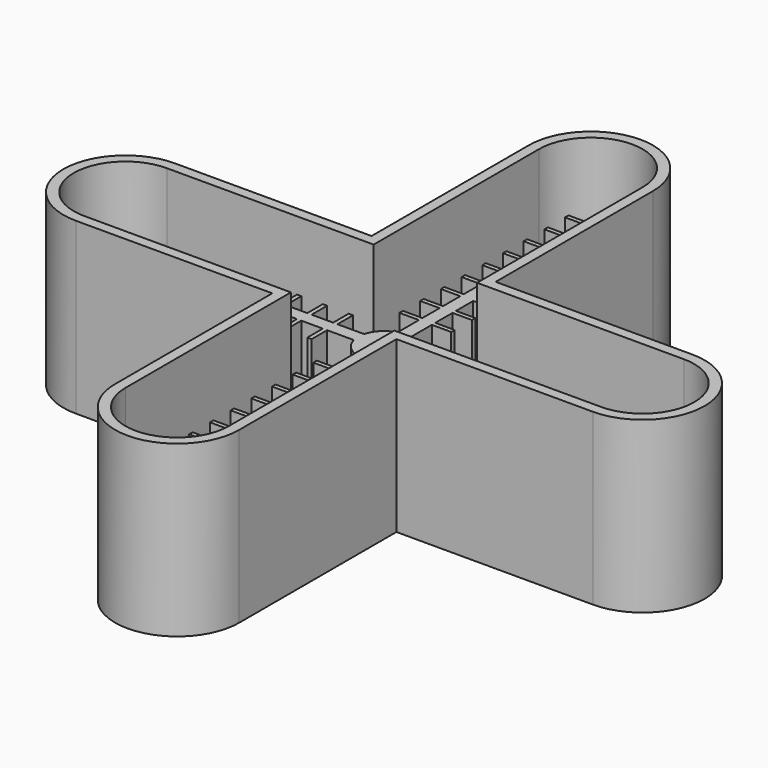
from build123d import *

# Parameters (mm, degrees)
F1_DEPTH = 19.05
F0_W     = 2.6458333333
F0_H     = 0.79375
F0_W_2   = 0.5291666667
F0_H_2   = 2.38125
F2_DEPTH = 12.7
F0_W_3   = 2.38125
F0_H_3   = 0.5291666667
F0_W_4   = 0.79375
F0_H_4   = 2.6458333333
F3_DEPTH = 12.7
F4_DEPTH = 12.7
F5_DEPTH = 0.5291666667
F6_DEPTH = 0.5291666667
F8_DEPTH = 1.27


with BuildPart() as f1:
    # F0 (on Top) → F1 (new body)
    with BuildSketch(Plane.XY):
        with BuildLine():
            Line((7.62, 1.27), (7.62, 25.4))
            ThreePointArc((7.62, 25.4), (0, 33.02), (-7.62, 25.4))
            Line((-7.62, 25.4), (-7.62, 1.27))
            Line((-7.62, 1.27), (-31.75, 1.27))
            ThreePointArc((-31.75, 1.27), (-39.37, -6.35), (-31.75, -13.97))
            Line((-31.75, -13.97), (-7.62, -13.97))
            Line((-7.62, -13.97), (-7.62, -38.1))
            ThreePointArc((-7.62, -38.1), (0, -45.72), (7.62, -38.1))
            Line((7.62, -38.1), (7.62, -13.97))
            Line((7.62, -13.97), (31.75, -13.97))
            ThreePointArc((31.75, -13.97), (39.37, -6.35), (31.75, 1.27))
            Line((31.75, 1.27), (7.62, 1.27))
        make_face()
        with BuildLine():
            ThreePointArc((-6.35, 25.4), (0, 31.75), (6.35, 25.4))
            Line((6.35, 25.4), (6.35, 0))
            Line((6.35, 0), (31.75, 0))
            ThreePointArc((31.75, 0), (38.1, -6.35), (31.75, -12.7))
            Line((31.75, -12.7), (6.35, -12.7))
            Line((6.35, -12.7), (6.35, -38.1))
            ThreePointArc((6.35, -38.1), (0, -44.45), (-6.35, -38.1))
            Line((-6.35, -38.1), (-6.35, -12.7))
            Line((-6.35, -12.7), (-31.75, -12.7))
            ThreePointArc((-31.75, -12.7), (-38.1, -6.35), (-31.75, 0))
            Line((-31.75, 0), (-6.35, 0))
            Line((-6.35, 0), (-6.35, 25.4))
        make_face(mode=Mode.SUBTRACT)
    extrude(amount=F1_DEPTH)



with BuildPart() as f2:
    # F0 (on Top) → F2 (new body)
    with BuildSketch(Plane.XY):
        Polygon((-31.75, -6.35), (-31.75, -5.55625), (-31.75, -3.175), (-32.2791666667, -3.175), (-32.2791666667, -9.525), (-31.75, -9.525), (-31.75, -7.14375), align=None)
        with Locations((-30.4270833333, -5.953125)):
            Rectangle(F0_W, F0_H)
        with Locations((-30.4270833333, -6.746875)):
            Rectangle(F0_W, F0_H)
        with Locations((-28.8395833333, -6.746875)):
            Rectangle(F0_W_2, F0_H)
        with Locations((-28.8395833333, -5.953125)):
            Rectangle(F0_W_2, F0_H)
        with Locations((-28.8395833333, -4.365625)):
            Rectangle(F0_W_2, F0_H_2)
        with Locations((-27.2520833333, -5.953125)):
            Rectangle(F0_W, F0_H)
        with Locations((-27.2520833333, -6.746875)):
            Rectangle(F0_W, F0_H)
        with Locations((-28.8395833333, -8.334375)):
            Rectangle(F0_W_2, F0_H_2)
        with Locations((-25.6645833333, -6.746875)):
            Rectangle(F0_W_2, F0_H)
        with Locations((-25.6645833333, -5.953125)):
            Rectangle(F0_W_2, F0_H)
        with Locations((-25.6645833333, -4.365625)):
            Rectangle(F0_W_2, F0_H_2)
        with Locations((-25.6645833333, -8.334375)):
            Rectangle(F0_W_2, F0_H_2)
        with Locations((-24.0770833333, -6.746875)):
            Rectangle(F0_W, F0_H)
        with Locations((-24.0770833333, -5.953125)):
            Rectangle(F0_W, F0_H)
        with Locations((-22.4895833333, -8.334375)):
            Rectangle(F0_W_2, F0_H_2)
        with Locations((-22.4895833333, -6.746875)):
            Rectangle(F0_W_2, F0_H)
        with Locations((-22.4895833333, -5.953125)):
            Rectangle(F0_W_2, F0_H)
        with Locations((-20.9020833333, -6.746875)):
            Rectangle(F0_W, F0_H)
        with Locations((-22.4895833333, -4.365625)):
            Rectangle(F0_W_2, F0_H_2)
        with Locations((-20.9020833333, -5.953125)):
            Rectangle(F0_W, F0_H)
        with Locations((-19.3145833333, -6.746875)):
            Rectangle(F0_W_2, F0_H)
        with Locations((-19.3145833333, -5.953125)):
            Rectangle(F0_W_2, F0_H)
        with Locations((-19.3145833333, -4.365625)):
            Rectangle(F0_W_2, F0_H_2)
        with Locations((-19.3145833333, -8.334375)):
            Rectangle(F0_W_2, F0_H_2)
        with Locations((-17.7270833333, -6.746875)):
            Rectangle(F0_W, F0_H)
        with Locations((-17.7270833333, -5.953125)):
            Rectangle(F0_W, F0_H)
        with Locations((-16.1395833333, -4.365625)):
            Rectangle(F0_W_2, F0_H_2)
        with Locations((-16.1395833333, -5.953125)):
            Rectangle(F0_W_2, F0_H)
        with Locations((-16.1395833333, -6.746875)):
            Rectangle(F0_W_2, F0_H)
        with Locations((-16.1395833333, -8.334375)):
            Rectangle(F0_W_2, F0_H_2)
        with Locations((-14.5520833333, -6.746875)):
            Rectangle(F0_W, F0_H)
        with Locations((-14.5520833333, -5.953125)):
            Rectangle(F0_W, F0_H)
        with Locations((-12.9645833333, -4.365625)):
            Rectangle(F0_W_2, F0_H_2)
        with Locations((-12.9645833333, -5.953125)):
            Rectangle(F0_W_2, F0_H)
        with Locations((-12.9645833333, -6.746875)):
            Rectangle(F0_W_2, F0_H)
        with Locations((-12.9645833333, -8.334375)):
            Rectangle(F0_W_2, F0_H_2)
        with Locations((-11.3770833333, -6.746875)):
            Rectangle(F0_W, F0_H)
        with Locations((-11.3770833333, -5.953125)):
            Rectangle(F0_W, F0_H)
        with Locations((-9.7895833333, -4.365625)):
            Rectangle(F0_W_2, F0_H_2)
        with Locations((-9.7895833333, -5.953125)):
            Rectangle(F0_W_2, F0_H)
        with Locations((-9.7895833333, -6.746875)):
            Rectangle(F0_W_2, F0_H)
        with Locations((-9.7895833333, -8.334375)):
            Rectangle(F0_W_2, F0_H_2)
        with Locations((-8.2020833333, -6.746875)):
            Rectangle(F0_W, F0_H)
        with Locations((-8.2020833333, -5.953125)):
            Rectangle(F0_W, F0_H)
        with Locations((-6.6145833333, -4.365625)):
            Rectangle(F0_W_2, F0_H_2)
        with Locations((-6.6145833333, -5.953125)):
            Rectangle(F0_W_2, F0_H)
        with Locations((-6.6145833333, -6.746875)):
            Rectangle(F0_W_2, F0_H)
        with Locations((-6.6145833333, -8.334375)):
            Rectangle(F0_W_2, F0_H_2)
        with BuildLine():
            ThreePointArc((-3.0741805311, -7.14375), (-3.1496942856, -6.7500636286), (-3.175, -6.35))
            Line((-3.175, -6.35), (-6.35, -6.35))
            Line((-6.35, -6.35), (-6.35, -7.14375))
            Line((-6.35, -7.14375), (-3.0741805311, -7.14375))
        make_face()
        with BuildLine():
            ThreePointArc((-3.175, -6.35), (-3.1496942856, -5.9499363714), (-3.0741805311, -5.55625))
            Line((-3.0741805311, -5.55625), (-6.35, -5.55625))
            Line((-6.35, -5.55625), (-6.35, -6.35))
            Line((-6.35, -6.35), (-3.175, -6.35))
        make_face()
        with BuildLine():
            ThreePointArc((0.79375, -3.2758194689), (0.4000636286, -3.2003057144), (0, -3.175))
            ThreePointArc((0, -3.175), (-0.4000636286, -3.2003057144), (-0.79375, -3.2758194689))
            ThreePointArc((-0.79375, -3.2758194689), (-2.2450640303, -4.1049359697), (-3.0741805311, -5.55625))
            ThreePointArc((-3.0741805311, -5.55625), (-3.1496942856, -5.9499363714), (-3.175, -6.35))
            ThreePointArc((-3.175, -6.35), (-3.1496942856, -6.7500636286), (-3.0741805311, -7.14375))
            ThreePointArc((-3.0741805311, -7.14375), (-2.2450640303, -8.5950640303), (-0.79375, -9.4241805311))
            ThreePointArc((-0.79375, -9.4241805311), (-0.4000636286, -9.4996942856), (0, -9.525))
            ThreePointArc((0, -9.525), (0.4000636286, -9.4996942856), (0.79375, -9.4241805311))
            ThreePointArc((0.79375, -9.4241805311), (2.2450640303, -8.5950640303), (3.0741805311, -7.14375))
            ThreePointArc((3.0741805311, -7.14375), (3.1496942856, -6.7500636286), (3.175, -6.35))
            ThreePointArc((3.175, -6.35), (3.1496942856, -5.9499363714), (3.0741805311, -5.55625))
            ThreePointArc((3.0741805311, -5.55625), (2.2450640303, -4.1049359697), (0.79375, -3.2758194689))
        make_face()
        with BuildLine():
            Line((6.35, -6.35), (3.175, -6.35))
            ThreePointArc((3.175, -6.35), (3.1496942856, -6.7500636286), (3.0741805311, -7.14375))
            Line((3.0741805311, -7.14375), (6.35, -7.14375))
            Line((6.35, -7.14375), (6.35, -6.35))
        make_face()
        with BuildLine():
            Line((6.35, -5.55625), (3.0741805311, -5.55625))
            ThreePointArc((3.0741805311, -5.55625), (3.1496942856, -5.9499363714), (3.175, -6.35))
            Line((3.175, -6.35), (6.35, -6.35))
            Line((6.35, -6.35), (6.35, -5.55625))
        make_face()
        with Locations((6.6145833333, -5.953125)):
            Rectangle(F0_W_2, F0_H)
        with Locations((6.6145833333, -6.746875)):
            Rectangle(F0_W_2, F0_H)
        with Locations((6.6145833333, -8.334375)):
            Rectangle(F0_W_2, F0_H_2)
        with Locations((8.2020833333, -6.746875)):
            Rectangle(F0_W, F0_H)
        with Locations((8.2020833333, -5.953125)):
            Rectangle(F0_W, F0_H)
        with Locations((9.7895833333, -4.365625)):
            Rectangle(F0_W_2, F0_H_2)
        with Locations((9.7895833333, -5.953125)):
            Rectangle(F0_W_2, F0_H)
        with Locations((9.7895833333, -6.746875)):
            Rectangle(F0_W_2, F0_H)
        with Locations((9.7895833333, -8.334375)):
            Rectangle(F0_W_2, F0_H_2)
        with Locations((11.3770833333, -6.746875)):
            Rectangle(F0_W, F0_H)
        with Locations((11.3770833333, -5.953125)):
            Rectangle(F0_W, F0_H)
        with Locations((12.9645833333, -4.365625)):
            Rectangle(F0_W_2, F0_H_2)
        with Locations((12.9645833333, -5.953125)):
            Rectangle(F0_W_2, F0_H)
        with Locations((12.9645833333, -6.746875)):
            Rectangle(F0_W_2, F0_H)
        with Locations((12.9645833333, -8.334375)):
            Rectangle(F0_W_2, F0_H_2)
        with Locations((14.5520833333, -6.746875)):
            Rectangle(F0_W, F0_H)
        with Locations((14.5520833333, -5.953125)):
            Rectangle(F0_W, F0_H)
        with Locations((16.1395833333, -4.365625)):
            Rectangle(F0_W_2, F0_H_2)
        with Locations((16.1395833333, -5.953125)):
            Rectangle(F0_W_2, F0_H)
        with Locations((16.1395833333, -6.746875)):
            Rectangle(F0_W_2, F0_H)
        with Locations((16.1395833333, -8.334375)):
            Rectangle(F0_W_2, F0_H_2)
        with Locations((17.7270833333, -6.746875)):
            Rectangle(F0_W, F0_H)
        with Locations((17.7270833333, -5.953125)):
            Rectangle(F0_W, F0_H)
        with Locations((19.3145833333, -5.953125)):
            Rectangle(F0_W_2, F0_H)
        with Locations((19.3145833333, -6.746875)):
            Rectangle(F0_W_2, F0_H)
        with Locations((19.3145833333, -8.334375)):
            Rectangle(F0_W_2, F0_H_2)
        with Locations((20.9020833333, -6.746875)):
            Rectangle(F0_W, F0_H)
        with Locations((20.9020833333, -5.953125)):
            Rectangle(F0_W, F0_H)
        with Locations((22.4895833333, -4.365625)):
            Rectangle(F0_W_2, F0_H_2)
        with Locations((22.4895833333, -5.953125)):
            Rectangle(F0_W_2, F0_H)
        with Locations((19.3145833333, -4.365625)):
            Rectangle(F0_W_2, F0_H_2)
        with Locations((6.6145833333, -4.365625)):
            Rectangle(F0_W_2, F0_H_2)
        with Locations((22.4895833333, -6.746875)):
            Rectangle(F0_W_2, F0_H)
        with Locations((22.4895833333, -8.334375)):
            Rectangle(F0_W_2, F0_H_2)
        with Locations((24.0770833333, -5.953125)):
            Rectangle(F0_W, F0_H)
        with Locations((24.0770833333, -6.746875)):
            Rectangle(F0_W, F0_H)
        with Locations((25.6645833333, -6.746875)):
            Rectangle(F0_W_2, F0_H)
        with Locations((25.6645833333, -5.953125)):
            Rectangle(F0_W_2, F0_H)
        with Locations((25.6645833333, -4.365625)):
            Rectangle(F0_W_2, F0_H_2)
        with Locations((25.6645833333, -8.334375)):
            Rectangle(F0_W_2, F0_H_2)
        with Locations((27.2520833333, -6.746875)):
            Rectangle(F0_W, F0_H)
        with Locations((27.2520833333, -5.953125)):
            Rectangle(F0_W, F0_H)
        with Locations((28.8395833333, -4.365625)):
            Rectangle(F0_W_2, F0_H_2)
        with Locations((28.8395833333, -6.746875)):
            Rectangle(F0_W_2, F0_H)
        with Locations((28.8395833333, -8.334375)):
            Rectangle(F0_W_2, F0_H_2)
        with Locations((30.4270833333, -6.746875)):
            Rectangle(F0_W, F0_H)
        with Locations((30.4270833333, -5.953125)):
            Rectangle(F0_W, F0_H)
        Polygon((31.75, -3.175), (31.75, -5.55625), (31.75, -6.35), (31.75, -7.14375), (31.75, -9.525), (32.2791666667, -9.525), (32.2791666667, -3.175), align=None)
        with Locations((28.8395833333, -5.953125)):
            Rectangle(F0_W_2, F0_H)
    extrude(amount=F2_DEPTH)

    # F0 (on Top) → F3 (join)
    with BuildSketch(Plane.XY):
        with BuildLine():
            Line((0, -3.175), (0, 0))
            Line((0, 0), (-0.79375, 0))
            Line((-0.79375, 0), (-0.79375, -3.2758194689))
            ThreePointArc((-0.79375, -3.2758194689), (-0.4000636286, -3.2003057144), (0, -3.175))
        make_face()
        with BuildLine():
            Line((0.79375, 0), (0, 0))
            Line((0, 0), (0, -3.175))
            ThreePointArc((0, -3.175), (0.4000636286, -3.2003057144), (0.79375, -3.2758194689))
            Line((0.79375, -3.2758194689), (0.79375, 0))
        make_face()
        with Locations((1.984375, 0.2645833333)):
            Rectangle(F0_W_3, F0_H_3)
        with Locations((0.396875, 0.2645833333)):
            Rectangle(F0_W_4, F0_H_3)
        with Locations((-0.396875, 0.2645833333)):
            Rectangle(F0_W_4, F0_H_3)
        with Locations((-1.984375, 0.2645833333)):
            Rectangle(F0_W_3, F0_H_3)
        with Locations((-0.396875, 1.8520833333)):
            Rectangle(F0_W_4, F0_H_4)
        with Locations((0.396875, 1.8520833333)):
            Rectangle(F0_W_4, F0_H_4)
        with Locations((1.984375, 3.4395833333)):
            Rectangle(F0_W_3, F0_H_3)
        with Locations((-0.396875, 3.4395833333)):
            Rectangle(F0_W_4, F0_H_3)
        with Locations((-1.984375, 3.4395833333)):
            Rectangle(F0_W_3, F0_H_3)
        with Locations((-0.396875, 5.0270833333)):
            Rectangle(F0_W_4, F0_H_4)
        with Locations((0.396875, 5.0270833333)):
            Rectangle(F0_W_4, F0_H_4)
        with Locations((0.396875, 3.4395833333)):
            Rectangle(F0_W_4, F0_H_3)
        with Locations((1.984375, 6.6145833333)):
            Rectangle(F0_W_3, F0_H_3)
        with Locations((0.396875, 6.6145833333)):
            Rectangle(F0_W_4, F0_H_3)
        with Locations((-0.396875, 6.6145833333)):
            Rectangle(F0_W_4, F0_H_3)
        with Locations((-1.984375, 6.6145833333)):
            Rectangle(F0_W_3, F0_H_3)
        with Locations((-0.396875, 8.2020833333)):
            Rectangle(F0_W_4, F0_H_4)
        with Locations((0.396875, 8.2020833333)):
            Rectangle(F0_W_4, F0_H_4)
        with Locations((-1.984375, 9.7895833333)):
            Rectangle(F0_W_3, F0_H_3)
        with Locations((-0.396875, 9.7895833333)):
            Rectangle(F0_W_4, F0_H_3)
        with Locations((0.396875, 9.7895833333)):
            Rectangle(F0_W_4, F0_H_3)
        with Locations((1.984375, 9.7895833333)):
            Rectangle(F0_W_3, F0_H_3)
        with Locations((-0.396875, 11.3770833333)):
            Rectangle(F0_W_4, F0_H_4)
        with Locations((0.396875, 11.3770833333)):
            Rectangle(F0_W_4, F0_H_4)
        with Locations((-1.984375, 12.9645833333)):
            Rectangle(F0_W_3, F0_H_3)
        with Locations((-0.396875, 12.9645833333)):
            Rectangle(F0_W_4, F0_H_3)
        with Locations((0.396875, 12.9645833333)):
            Rectangle(F0_W_4, F0_H_3)
        with Locations((1.984375, 12.9645833333)):
            Rectangle(F0_W_3, F0_H_3)
        with Locations((-0.396875, 14.5520833333)):
            Rectangle(F0_W_4, F0_H_4)
        with Locations((0.396875, 14.5520833333)):
            Rectangle(F0_W_4, F0_H_4)
        with Locations((-1.984375, 16.1395833333)):
            Rectangle(F0_W_3, F0_H_3)
        with Locations((-0.396875, 16.1395833333)):
            Rectangle(F0_W_4, F0_H_3)
        with Locations((0.396875, 16.1395833333)):
            Rectangle(F0_W_4, F0_H_3)
        with Locations((1.984375, 16.1395833333)):
            Rectangle(F0_W_3, F0_H_3)
        with Locations((0.396875, 17.7270833333)):
            Rectangle(F0_W_4, F0_H_4)
        with Locations((-0.396875, 17.7270833333)):
            Rectangle(F0_W_4, F0_H_4)
        with Locations((-1.984375, 19.3145833333)):
            Rectangle(F0_W_3, F0_H_3)
        with Locations((-0.396875, 19.3145833333)):
            Rectangle(F0_W_4, F0_H_3)
        with Locations((0.396875, 19.3145833333)):
            Rectangle(F0_W_4, F0_H_3)
        with Locations((1.984375, 19.3145833333)):
            Rectangle(F0_W_3, F0_H_3)
        with Locations((0.396875, 20.9020833333)):
            Rectangle(F0_W_4, F0_H_4)
        with Locations((-0.396875, 20.9020833333)):
            Rectangle(F0_W_4, F0_H_4)
        with Locations((-1.984375, 22.4895833333)):
            Rectangle(F0_W_3, F0_H_3)
        with Locations((-0.396875, 22.4895833333)):
            Rectangle(F0_W_4, F0_H_3)
        with Locations((0.396875, 22.4895833333)):
            Rectangle(F0_W_4, F0_H_3)
        with Locations((-0.396875, 24.0770833333)):
            Rectangle(F0_W_4, F0_H_4)
        with Locations((1.984375, 22.4895833333)):
            Rectangle(F0_W_3, F0_H_3)
        with Locations((0.396875, 24.0770833333)):
            Rectangle(F0_W_4, F0_H_4)
        Polygon((-0.79375, 25.4), (0, 25.4), (0.79375, 25.4), (3.175, 25.4), (3.175, 25.9291666667), (-3.175, 25.9291666667), (-3.175, 25.4), align=None)
    extrude(amount=F3_DEPTH)

    # F0 (on Top) → F4 (join)
    with BuildSketch(Plane.XY):
        with BuildLine():
            Line((0.79375, -12.7), (0.79375, -9.4241805311))
            ThreePointArc((0.79375, -9.4241805311), (0.4000636286, -9.4996942856), (0, -9.525))
            Line((0, -9.525), (0, -12.7))
            Line((0, -12.7), (0.79375, -12.7))
        make_face()
        with BuildLine():
            ThreePointArc((0, -9.525), (-0.4000636286, -9.4996942856), (-0.79375, -9.4241805311))
            Line((-0.79375, -9.4241805311), (-0.79375, -12.7))
            Line((-0.79375, -12.7), (0, -12.7))
            Line((0, -12.7), (0, -9.525))
        make_face()
        with Locations((-0.396875, -12.9645833333)):
            Rectangle(F0_W_4, F0_H_3)
        with Locations((0.396875, -12.9645833333)):
            Rectangle(F0_W_4, F0_H_3)
        with Locations((1.984375, -12.9645833333)):
            Rectangle(F0_W_3, F0_H_3)
        with Locations((-1.984375, -12.9645833333)):
            Rectangle(F0_W_3, F0_H_3)
        with Locations((-0.396875, -14.5520833333)):
            Rectangle(F0_W_4, F0_H_4)
        with Locations((0.396875, -14.5520833333)):
            Rectangle(F0_W_4, F0_H_4)
        with Locations((1.984375, -16.1395833333)):
            Rectangle(F0_W_3, F0_H_3)
        with Locations((0.396875, -16.1395833333)):
            Rectangle(F0_W_4, F0_H_3)
        with Locations((-0.396875, -16.1395833333)):
            Rectangle(F0_W_4, F0_H_3)
        with Locations((-1.984375, -16.1395833333)):
            Rectangle(F0_W_3, F0_H_3)
        with Locations((1.984375, -19.3145833333)):
            Rectangle(F0_W_3, F0_H_3)
        with Locations((0.396875, -19.3145833333)):
            Rectangle(F0_W_4, F0_H_3)
        with Locations((-0.396875, -19.3145833333)):
            Rectangle(F0_W_4, F0_H_3)
        with Locations((-1.984375, -19.3145833333)):
            Rectangle(F0_W_3, F0_H_3)
        with Locations((-0.396875, -17.7270833333)):
            Rectangle(F0_W_4, F0_H_4)
        with Locations((0.396875, -17.7270833333)):
            Rectangle(F0_W_4, F0_H_4)
        with Locations((0.396875, -20.9020833333)):
            Rectangle(F0_W_4, F0_H_4)
        with Locations((-0.396875, -20.9020833333)):
            Rectangle(F0_W_4, F0_H_4)
        with Locations((-0.396875, -22.4895833333)):
            Rectangle(F0_W_4, F0_H_3)
        with Locations((0.396875, -22.4895833333)):
            Rectangle(F0_W_4, F0_H_3)
        with Locations((1.984375, -22.4895833333)):
            Rectangle(F0_W_3, F0_H_3)
        with Locations((-1.984375, -22.4895833333)):
            Rectangle(F0_W_3, F0_H_3)
        with Locations((-0.396875, -24.0770833333)):
            Rectangle(F0_W_4, F0_H_4)
        with Locations((0.396875, -24.0770833333)):
            Rectangle(F0_W_4, F0_H_4)
        with Locations((0.396875, -25.6645833333)):
            Rectangle(F0_W_4, F0_H_3)
        with Locations((-0.396875, -25.6645833333)):
            Rectangle(F0_W_4, F0_H_3)
        with Locations((-1.984375, -25.6645833333)):
            Rectangle(F0_W_3, F0_H_3)
        with Locations((-0.396875, -27.2520833333)):
            Rectangle(F0_W_4, F0_H_4)
        with Locations((1.984375, -25.6645833333)):
            Rectangle(F0_W_3, F0_H_3)
        with Locations((0.396875, -27.2520833333)):
            Rectangle(F0_W_4, F0_H_4)
        with Locations((0.396875, -28.8395833333)):
            Rectangle(F0_W_4, F0_H_3)
        with Locations((1.984375, -28.8395833333)):
            Rectangle(F0_W_3, F0_H_3)
        with Locations((-0.396875, -28.8395833333)):
            Rectangle(F0_W_4, F0_H_3)
        with Locations((-1.984375, -28.8395833333)):
            Rectangle(F0_W_3, F0_H_3)
        with Locations((-0.396875, -30.4270833333)):
            Rectangle(F0_W_4, F0_H_4)
        with Locations((0.396875, -30.4270833333)):
            Rectangle(F0_W_4, F0_H_4)
        with Locations((0.396875, -32.0145833333)):
            Rectangle(F0_W_4, F0_H_3)
        with Locations((1.984375, -32.0145833333)):
            Rectangle(F0_W_3, F0_H_3)
        with Locations((-0.396875, -32.0145833333)):
            Rectangle(F0_W_4, F0_H_3)
        with Locations((-1.984375, -32.0145833333)):
            Rectangle(F0_W_3, F0_H_3)
        with Locations((-0.396875, -33.6020833333)):
            Rectangle(F0_W_4, F0_H_4)
        with Locations((0.396875, -33.6020833333)):
            Rectangle(F0_W_4, F0_H_4)
        with Locations((0.396875, -35.1895833333)):
            Rectangle(F0_W_4, F0_H_3)
        with Locations((1.984375, -35.1895833333)):
            Rectangle(F0_W_3, F0_H_3)
        with Locations((-0.396875, -35.1895833333)):
            Rectangle(F0_W_4, F0_H_3)
        with Locations((-1.984375, -35.1895833333)):
            Rectangle(F0_W_3, F0_H_3)
        with Locations((-0.396875, -36.7770833333)):
            Rectangle(F0_W_4, F0_H_4)
        with Locations((0.396875, -36.7770833333)):
            Rectangle(F0_W_4, F0_H_4)
        Polygon((0, -38.1), (-0.79375, -38.1), (-3.175, -38.1), (-3.175, -38.6291666667), (3.175, -38.6291666667), (3.175, -38.1), (0.79375, -38.1), align=None)
    extrude(amount=F4_DEPTH)


with BuildPart() as f1_1:
    add(f1.part)

    add(f2.part)  # F5 merges F2
    # F0 (on Top) → F5 (join)
    with BuildSketch(Plane.XY):
        with BuildLine():
            Line((6.35, 0), (6.35, 25.4))
            ThreePointArc((6.35, 25.4), (0, 31.75), (-6.35, 25.4))
            Line((-6.35, 25.4), (-6.35, 0))
            Line((-6.35, 0), (-31.75, 0))
            ThreePointArc((-31.75, 0), (-38.1, -6.35), (-31.75, -12.7))
            Line((-31.75, -12.7), (-6.35, -12.7))
            Line((-6.35, -12.7), (-6.35, -38.1))
            ThreePointArc((-6.35, -38.1), (0, -44.45), (6.35, -38.1))
            Line((6.35, -38.1), (6.35, -12.7))
            Line((6.35, -12.7), (31.75, -12.7))
            ThreePointArc((31.75, -12.7), (38.1, -6.35), (31.75, 0))
            Line((31.75, 0), (6.35, 0))
        make_face()
        with BuildLine():
            Line((-0.79375, -3.2758194689), (-0.79375, 0))
            Line((-0.79375, 0), (-3.175, 0))
            Line((-3.175, 0), (-3.175, 0.5291666667))
            Line((-3.175, 0.5291666667), (-0.79375, 0.5291666667))
            Line((-0.79375, 0.5291666667), (-0.79375, 3.175))
            Line((-0.79375, 3.175), (-3.175, 3.175))
            Line((-3.175, 3.175), (-3.175, 3.7041666667))
            Line((-3.175, 3.7041666667), (-0.79375, 3.7041666667))
            Line((-0.79375, 3.7041666667), (-0.79375, 6.35))
            Line((-0.79375, 6.35), (-3.175, 6.35))
            Line((-3.175, 6.35), (-3.175, 6.8791666667))
            Line((-3.175, 6.8791666667), (-0.79375, 6.8791666667))
            Line((-0.79375, 6.8791666667), (-0.79375, 9.525))
            Line((-0.79375, 9.525), (-3.175, 9.525))
            Line((-3.175, 9.525), (-3.175, 10.0541666667))
            Line((-3.175, 10.0541666667), (-0.79375, 10.0541666667))
            Line((-0.79375, 10.0541666667), (-0.79375, 12.7))
            Line((-0.79375, 12.7), (-3.175, 12.7))
            Line((-3.175, 12.7), (-3.175, 13.2291666667))
            Line((-3.175, 13.2291666667), (-0.79375, 13.2291666667))
            Line((-0.79375, 13.2291666667), (-0.79375, 15.875))
            Line((-0.79375, 15.875), (-3.175, 15.875))
            Line((-3.175, 15.875), (-3.175, 16.4041666667))
            Line((-3.175, 16.4041666667), (-0.79375, 16.4041666667))
            Line((-0.79375, 16.4041666667), (-0.79375, 19.05))
            Line((-0.79375, 19.05), (-3.175, 19.05))
            Line((-3.175, 19.05), (-3.175, 19.5791666667))
            Line((-3.175, 19.5791666667), (-0.79375, 19.5791666667))
            Line((-0.79375, 19.5791666667), (-0.79375, 22.225))
            Line((-0.79375, 22.225), (-3.175, 22.225))
            Line((-3.175, 22.225), (-3.175, 22.7541666667))
            Line((-3.175, 22.7541666667), (-0.79375, 22.7541666667))
            Line((-0.79375, 22.7541666667), (-0.79375, 25.4))
            Line((-0.79375, 25.4), (-3.175, 25.4))
            Line((-3.175, 25.4), (-3.175, 25.9291666667))
            Line((-3.175, 25.9291666667), (3.175, 25.9291666667))
            Line((3.175, 25.9291666667), (3.175, 25.4))
            Line((3.175, 25.4), (0.79375, 25.4))
            Line((0.79375, 25.4), (0.79375, 22.7541666667))
            Line((0.79375, 22.7541666667), (3.175, 22.7541666667))
            Line((3.175, 22.7541666667), (3.175, 22.225))
            Line((3.175, 22.225), (0.79375, 22.225))
            Line((0.79375, 22.225), (0.79375, 19.5791666667))
            Line((0.79375, 19.5791666667), (3.175, 19.5791666667))
            Line((3.175, 19.5791666667), (3.175, 19.05))
            Line((3.175, 19.05), (0.79375, 19.05))
            Line((0.79375, 19.05), (0.79375, 16.4041666667))
            Line((0.79375, 16.4041666667), (3.175, 16.4041666667))
            Line((3.175, 16.4041666667), (3.175, 15.875))
            Line((3.175, 15.875), (0.79375, 15.875))
            Line((0.79375, 15.875), (0.79375, 13.2291666667))
            Line((0.79375, 13.2291666667), (3.175, 13.2291666667))
            Line((3.175, 13.2291666667), (3.175, 12.7))
            Line((3.175, 12.7), (0.79375, 12.7))
            Line((0.79375, 12.7), (0.79375, 10.0541666667))
            Line((0.79375, 10.0541666667), (3.175, 10.0541666667))
            Line((3.175, 10.0541666667), (3.175, 9.525))
            Line((3.175, 9.525), (0.79375, 9.525))
            Line((0.79375, 9.525), (0.79375, 6.8791666667))
            Line((0.79375, 6.8791666667), (3.175, 6.8791666667))
            Line((3.175, 6.8791666667), (3.175, 6.35))
            Line((3.175, 6.35), (0.79375, 6.35))
            Line((0.79375, 6.35), (0.79375, 3.7041666667))
            Line((0.79375, 3.7041666667), (3.175, 3.7041666667))
            Line((3.175, 3.7041666667), (3.175, 3.175))
            Line((3.175, 3.175), (0.79375, 3.175))
            Line((0.79375, 3.175), (0.79375, 0.5291666667))
            Line((0.79375, 0.5291666667), (3.175, 0.5291666667))
            Line((3.175, 0.5291666667), (3.175, 0))
            Line((3.175, 0), (0.79375, 0))
            Line((0.79375, 0), (0.79375, -3.2758194689))
            ThreePointArc((0.79375, -3.2758194689), (2.2450640303, -4.1049359697), (3.0741805311, -5.55625))
            Line((3.0741805311, -5.55625), (6.35, -5.55625))
            Line((6.35, -5.55625), (6.35, -3.175))
            Line((6.35, -3.175), (6.8791666667, -3.175))
            Line((6.8791666667, -3.175), (6.8791666667, -5.55625))
            Line((6.8791666667, -5.55625), (9.525, -5.55625))
            Line((9.525, -5.55625), (9.525, -3.175))
            Line((9.525, -3.175), (10.0541666667, -3.175))
            Line((10.0541666667, -3.175), (10.0541666667, -5.55625))
            Line((10.0541666667, -5.55625), (12.7, -5.55625))
            Line((12.7, -5.55625), (12.7, -3.175))
            Line((12.7, -3.175), (13.2291666667, -3.175))
            Line((13.2291666667, -3.175), (13.2291666667, -5.55625))
            Line((13.2291666667, -5.55625), (15.875, -5.55625))
            Line((15.875, -5.55625), (15.875, -3.175))
            Line((15.875, -3.175), (16.4041666667, -3.175))
            Line((16.4041666667, -3.175), (16.4041666667, -5.55625))
            Line((16.4041666667, -5.55625), (19.05, -5.55625))
            Line((19.05, -5.55625), (19.05, -3.175))
            Line((19.05, -3.175), (19.5791666667, -3.175))
            Line((19.5791666667, -3.175), (19.5791666667, -5.55625))
            Line((19.5791666667, -5.55625), (22.225, -5.55625))
            Line((22.225, -5.55625), (22.225, -3.175))
            Line((22.225, -3.175), (22.7541666667, -3.175))
            Line((22.7541666667, -3.175), (22.7541666667, -5.55625))
            Line((22.7541666667, -5.55625), (25.4, -5.55625))
            Line((25.4, -5.55625), (25.4, -3.175))
            Line((25.4, -3.175), (25.9291666667, -3.175))
            Line((25.9291666667, -3.175), (25.9291666667, -5.55625))
            Line((25.9291666667, -5.55625), (28.575, -5.55625))
            Line((28.575, -5.55625), (28.575, -3.175))
            Line((28.575, -3.175), (29.1041666667, -3.175))
            Line((29.1041666667, -3.175), (29.1041666667, -5.55625))
            Line((29.1041666667, -5.55625), (31.75, -5.55625))
            Line((31.75, -5.55625), (31.75, -3.175))
            Line((31.75, -3.175), (32.2791666667, -3.175))
            Line((32.2791666667, -3.175), (32.2791666667, -9.525))
            Line((32.2791666667, -9.525), (31.75, -9.525))
            Line((31.75, -9.525), (31.75, -7.14375))
            Line((31.75, -7.14375), (29.1041666667, -7.14375))
            Line((29.1041666667, -7.14375), (29.1041666667, -9.525))
            Line((29.1041666667, -9.525), (28.575, -9.525))
            Line((28.575, -9.525), (28.575, -7.14375))
            Line((28.575, -7.14375), (25.9291666667, -7.14375))
            Line((25.9291666667, -7.14375), (25.9291666667, -9.525))
            Line((25.9291666667, -9.525), (25.4, -9.525))
            Line((25.4, -9.525), (25.4, -7.14375))
            Line((25.4, -7.14375), (22.7541666667, -7.14375))
            Line((22.7541666667, -7.14375), (22.7541666667, -9.525))
            Line((22.7541666667, -9.525), (22.225, -9.525))
            Line((22.225, -9.525), (22.225, -7.14375))
            Line((22.225, -7.14375), (19.5791666667, -7.14375))
            Line((19.5791666667, -7.14375), (19.5791666667, -9.525))
            Line((19.5791666667, -9.525), (19.05, -9.525))
            Line((19.05, -9.525), (19.05, -7.14375))
            Line((19.05, -7.14375), (16.4041666667, -7.14375))
            Line((16.4041666667, -7.14375), (16.4041666667, -9.525))
            Line((16.4041666667, -9.525), (15.875, -9.525))
            Line((15.875, -9.525), (15.875, -7.14375))
            Line((15.875, -7.14375), (13.2291666667, -7.14375))
            Line((13.2291666667, -7.14375), (13.2291666667, -9.525))
            Line((13.2291666667, -9.525), (12.7, -9.525))
            Line((12.7, -9.525), (12.7, -7.14375))
            Line((12.7, -7.14375), (10.0541666667, -7.14375))
            Line((10.0541666667, -7.14375), (10.0541666667, -9.525))
            Line((10.0541666667, -9.525), (9.525, -9.525))
            Line((9.525, -9.525), (9.525, -7.14375))
            Line((9.525, -7.14375), (6.8791666667, -7.14375))
            Line((6.8791666667, -7.14375), (6.8791666667, -9.525))
            Line((6.8791666667, -9.525), (6.35, -9.525))
            Line((6.35, -9.525), (6.35, -7.14375))
            Line((6.35, -7.14375), (3.0741805311, -7.14375))
            ThreePointArc((3.0741805311, -7.14375), (2.2450640303, -8.5950640303), (0.79375, -9.4241805311))
            Line((0.79375, -9.4241805311), (0.79375, -12.7))
            Line((0.79375, -12.7), (3.175, -12.7))
            Line((3.175, -12.7), (3.175, -13.2291666667))
            Line((3.175, -13.2291666667), (0.79375, -13.2291666667))
            Line((0.79375, -13.2291666667), (0.79375, -15.875))
            Line((0.79375, -15.875), (3.175, -15.875))
            Line((3.175, -15.875), (3.175, -16.4041666667))
            Line((3.175, -16.4041666667), (0.79375, -16.4041666667))
            Line((0.79375, -16.4041666667), (0.79375, -19.05))
            Line((0.79375, -19.05), (3.175, -19.05))
            Line((3.175, -19.05), (3.175, -19.5791666667))
            Line((3.175, -19.5791666667), (0.79375, -19.5791666667))
            Line((0.79375, -19.5791666667), (0.79375, -22.225))
            Line((0.79375, -22.225), (3.175, -22.225))
            Line((3.175, -22.225), (3.175, -22.7541666667))
            Line((3.175, -22.7541666667), (0.79375, -22.7541666667))
            Line((0.79375, -22.7541666667), (0.79375, -25.4))
            Line((0.79375, -25.4), (3.175, -25.4))
            Line((3.175, -25.4), (3.175, -25.9291666667))
            Line((3.175, -25.9291666667), (0.79375, -25.9291666667))
            Line((0.79375, -25.9291666667), (0.79375, -28.575))
            Line((0.79375, -28.575), (3.175, -28.575))
            Line((3.175, -28.575), (3.175, -29.1041666667))
            Line((3.175, -29.1041666667), (0.79375, -29.1041666667))
            Line((0.79375, -29.1041666667), (0.79375, -31.75))
            Line((0.79375, -31.75), (3.175, -31.75))
            Line((3.175, -31.75), (3.175, -32.2791666667))
            Line((3.175, -32.2791666667), (0.79375, -32.2791666667))
            Line((0.79375, -32.2791666667), (0.79375, -34.925))
            Line((0.79375, -34.925), (3.175, -34.925))
            Line((3.175, -34.925), (3.175, -35.4541666667))
            Line((3.175, -35.4541666667), (0.79375, -35.4541666667))
            Line((0.79375, -35.4541666667), (0.79375, -38.1))
            Line((0.79375, -38.1), (3.175, -38.1))
            Line((3.175, -38.1), (3.175, -38.6291666667))
            Line((3.175, -38.6291666667), (-3.175, -38.6291666667))
            Line((-3.175, -38.6291666667), (-3.175, -38.1))
            Line((-3.175, -38.1), (-0.79375, -38.1))
            Line((-0.79375, -38.1), (-0.79375, -35.4541666667))
            Line((-0.79375, -35.4541666667), (-3.175, -35.4541666667))
            Line((-3.175, -35.4541666667), (-3.175, -34.925))
            Line((-3.175, -34.925), (-0.79375, -34.925))
            Line((-0.79375, -34.925), (-0.79375, -32.2791666667))
            Line((-0.79375, -32.2791666667), (-3.175, -32.2791666667))
            Line((-3.175, -32.2791666667), (-3.175, -31.75))
            Line((-3.175, -31.75), (-0.79375, -31.75))
            Line((-0.79375, -31.75), (-0.79375, -29.1041666667))
            Line((-0.79375, -29.1041666667), (-3.175, -29.1041666667))
            Line((-3.175, -29.1041666667), (-3.175, -28.575))
            Line((-3.175, -28.575), (-0.79375, -28.575))
            Line((-0.79375, -28.575), (-0.79375, -25.9291666667))
            Line((-0.79375, -25.9291666667), (-3.175, -25.9291666667))
            Line((-3.175, -25.9291666667), (-3.175, -25.4))
            Line((-3.175, -25.4), (-0.79375, -25.4))
            Line((-0.79375, -25.4), (-0.79375, -22.7541666667))
            Line((-0.79375, -22.7541666667), (-3.175, -22.7541666667))
            Line((-3.175, -22.7541666667), (-3.175, -22.225))
            Line((-3.175, -22.225), (-0.79375, -22.225))
            Line((-0.79375, -22.225), (-0.79375, -19.5791666667))
            Line((-0.79375, -19.5791666667), (-3.175, -19.5791666667))
            Line((-3.175, -19.5791666667), (-3.175, -19.05))
            Line((-3.175, -19.05), (-0.79375, -19.05))
            Line((-0.79375, -19.05), (-0.79375, -16.4041666667))
            Line((-0.79375, -16.4041666667), (-3.175, -16.4041666667))
            Line((-3.175, -16.4041666667), (-3.175, -15.875))
            Line((-3.175, -15.875), (-0.79375, -15.875))
            Line((-0.79375, -15.875), (-0.79375, -13.2291666667))
            Line((-0.79375, -13.2291666667), (-3.175, -13.2291666667))
            Line((-3.175, -13.2291666667), (-3.175, -12.7))
            Line((-3.175, -12.7), (-0.79375, -12.7))
            Line((-0.79375, -12.7), (-0.79375, -9.4241805311))
            ThreePointArc((-0.79375, -9.4241805311), (-2.2450640303, -8.5950640303), (-3.0741805311, -7.14375))
            Line((-3.0741805311, -7.14375), (-6.35, -7.14375))
            Line((-6.35, -7.14375), (-6.35, -9.525))
            Line((-6.35, -9.525), (-6.8791666667, -9.525))
            Line((-6.8791666667, -9.525), (-6.8791666667, -7.14375))
            Line((-6.8791666667, -7.14375), (-9.525, -7.14375))
            Line((-9.525, -7.14375), (-9.525, -9.525))
            Line((-9.525, -9.525), (-10.0541666667, -9.525))
            Line((-10.0541666667, -9.525), (-10.0541666667, -7.14375))
            Line((-10.0541666667, -7.14375), (-12.7, -7.14375))
            Line((-12.7, -7.14375), (-12.7, -9.525))
            Line((-12.7, -9.525), (-13.2291666667, -9.525))
            Line((-13.2291666667, -9.525), (-13.2291666667, -7.14375))
            Line((-13.2291666667, -7.14375), (-15.875, -7.14375))
            Line((-15.875, -7.14375), (-15.875, -9.525))
            Line((-15.875, -9.525), (-16.4041666667, -9.525))
            Line((-16.4041666667, -9.525), (-16.4041666667, -7.14375))
            Line((-16.4041666667, -7.14375), (-19.05, -7.14375))
            Line((-19.05, -7.14375), (-19.05, -9.525))
            Line((-19.05, -9.525), (-19.5791666667, -9.525))
            Line((-19.5791666667, -9.525), (-19.5791666667, -7.14375))
            Line((-19.5791666667, -7.14375), (-22.225, -7.14375))
            Line((-22.225, -7.14375), (-22.225, -9.525))
            Line((-22.225, -9.525), (-22.7541666667, -9.525))
            Line((-22.7541666667, -9.525), (-22.7541666667, -7.14375))
            Line((-22.7541666667, -7.14375), (-25.4, -7.14375))
            Line((-25.4, -7.14375), (-25.4, -9.525))
            Line((-25.4, -9.525), (-25.9291666667, -9.525))
            Line((-25.9291666667, -9.525), (-25.9291666667, -7.14375))
            Line((-25.9291666667, -7.14375), (-28.575, -7.14375))
            Line((-28.575, -7.14375), (-28.575, -9.525))
            Line((-28.575, -9.525), (-29.1041666667, -9.525))
            Line((-29.1041666667, -9.525), (-29.1041666667, -7.14375))
            Line((-29.1041666667, -7.14375), (-31.75, -7.14375))
            Line((-31.75, -7.14375), (-31.75, -9.525))
            Line((-31.75, -9.525), (-32.2791666667, -9.525))
            Line((-32.2791666667, -9.525), (-32.2791666667, -3.175))
            Line((-32.2791666667, -3.175), (-31.75, -3.175))
            Line((-31.75, -3.175), (-31.75, -5.55625))
            Line((-31.75, -5.55625), (-29.1041666667, -5.55625))
            Line((-29.1041666667, -5.55625), (-29.1041666667, -3.175))
            Line((-29.1041666667, -3.175), (-28.575, -3.175))
            Line((-28.575, -3.175), (-28.575, -5.55625))
            Line((-28.575, -5.55625), (-25.9291666667, -5.55625))
            Line((-25.9291666667, -5.55625), (-25.9291666667, -3.175))
            Line((-25.9291666667, -3.175), (-25.4, -3.175))
            Line((-25.4, -3.175), (-25.4, -5.55625))
            Line((-25.4, -5.55625), (-22.7541666667, -5.55625))
            Line((-22.7541666667, -5.55625), (-22.7541666667, -3.175))
            Line((-22.7541666667, -3.175), (-22.225, -3.175))
            Line((-22.225, -3.175), (-22.225, -5.55625))
            Line((-22.225, -5.55625), (-19.5791666667, -5.55625))
            Line((-19.5791666667, -5.55625), (-19.5791666667, -3.175))
            Line((-19.5791666667, -3.175), (-19.05, -3.175))
            Line((-19.05, -3.175), (-19.05, -5.55625))
            Line((-19.05, -5.55625), (-16.4041666667, -5.55625))
            Line((-16.4041666667, -5.55625), (-16.4041666667, -3.175))
            Line((-16.4041666667, -3.175), (-15.875, -3.175))
            Line((-15.875, -3.175), (-15.875, -5.55625))
            Line((-15.875, -5.55625), (-13.2291666667, -5.55625))
            Line((-13.2291666667, -5.55625), (-13.2291666667, -3.175))
            Line((-13.2291666667, -3.175), (-12.7, -3.175))
            Line((-12.7, -3.175), (-12.7, -5.55625))
            Line((-12.7, -5.55625), (-10.0541666667, -5.55625))
            Line((-10.0541666667, -5.55625), (-10.0541666667, -3.175))
            Line((-10.0541666667, -3.175), (-9.525, -3.175))
            Line((-9.525, -3.175), (-9.525, -5.55625))
            Line((-9.525, -5.55625), (-6.8791666667, -5.55625))
            Line((-6.8791666667, -5.55625), (-6.8791666667, -3.175))
            Line((-6.8791666667, -3.175), (-6.35, -3.175))
            Line((-6.35, -3.175), (-6.35, -5.55625))
            Line((-6.35, -5.55625), (-3.0741805311, -5.55625))
            ThreePointArc((-3.0741805311, -5.55625), (-2.2450640303, -4.1049359697), (-0.79375, -3.2758194689))
        make_face(mode=Mode.SUBTRACT)
    extrude(amount=-F5_DEPTH)

    # F0 (on Top) → F6 (join)
    with BuildSketch(Plane.XY):
        with BuildLine():
            Line((7.62, 1.27), (7.62, 25.4))
            ThreePointArc((7.62, 25.4), (0, 33.02), (-7.62, 25.4))
            Line((-7.62, 25.4), (-7.62, 1.27))
            Line((-7.62, 1.27), (-31.75, 1.27))
            ThreePointArc((-31.75, 1.27), (-39.37, -6.35), (-31.75, -13.97))
            Line((-31.75, -13.97), (-7.62, -13.97))
            Line((-7.62, -13.97), (-7.62, -38.1))
            ThreePointArc((-7.62, -38.1), (0, -45.72), (7.62, -38.1))
            Line((7.62, -38.1), (7.62, -13.97))
            Line((7.62, -13.97), (31.75, -13.97))
            ThreePointArc((31.75, -13.97), (39.37, -6.35), (31.75, 1.27))
            Line((31.75, 1.27), (7.62, 1.27))
        make_face()
        with BuildLine():
            ThreePointArc((-6.35, 25.4), (0, 31.75), (6.35, 25.4))
            Line((6.35, 25.4), (6.35, 0))
            Line((6.35, 0), (31.75, 0))
            ThreePointArc((31.75, 0), (38.1, -6.35), (31.75, -12.7))
            Line((31.75, -12.7), (6.35, -12.7))
            Line((6.35, -12.7), (6.35, -38.1))
            ThreePointArc((6.35, -38.1), (0, -44.45), (-6.35, -38.1))
            Line((-6.35, -38.1), (-6.35, -12.7))
            Line((-6.35, -12.7), (-31.75, -12.7))
            ThreePointArc((-31.75, -12.7), (-38.1, -6.35), (-31.75, 0))
            Line((-31.75, 0), (-6.35, 0))
            Line((-6.35, 0), (-6.35, 25.4))
        make_face(mode=Mode.SUBTRACT)
    extrude(amount=-F6_DEPTH)

    # F7 (on face) → F8 (join, symmetric)
    with BuildSketch(Plane(origin=(0, 0, -0.5291666667), x_dir=(1, 0, 0), z_dir=(0, 0, -1))):
        with BuildLine():
            Line((-31.75, -1.27), (-7.62, -1.27))
            Line((-7.62, -1.27), (-7.62, -25.4))
            ThreePointArc((-7.62, -25.4), (0, -33.02), (7.62, -25.4))
            Line((7.62, -25.4), (7.62, -1.27))
            Line((7.62, -1.27), (31.75, -1.27))
            ThreePointArc((31.75, -1.27), (39.37, 6.35), (31.75, 13.97))
            Line((31.75, 13.97), (7.62, 13.97))
            Line((7.62, 13.97), (7.62, 38.1))
            ThreePointArc((7.62, 38.1), (0, 45.72), (-7.62, 38.1))
            Line((-7.62, 38.1), (-7.62, 13.97))
            Line((-7.62, 13.97), (-31.75, 13.97))
            ThreePointArc((-31.75, 13.97), (-39.37, 6.35), (-31.75, -1.27))
        make_face()
    extrude(amount=F8_DEPTH, both=True)


solid = f1_1.part
